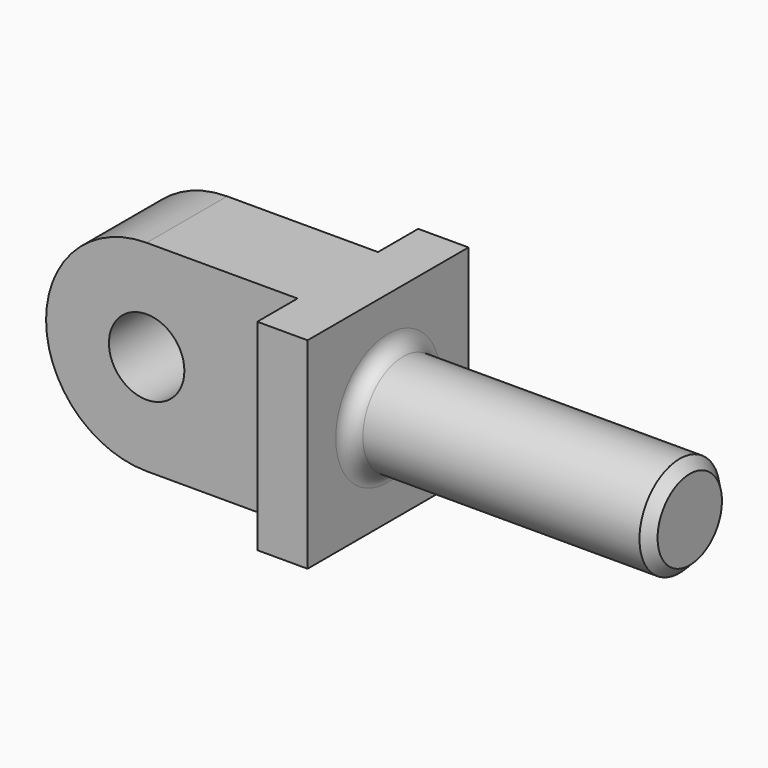
from build123d import *

# Parameters (mm, degrees)
F0_R     = 9.525
F1_DEPTH = 12.7
F0_W     = 12.7
F0_H     = 50.8
F2_DEPTH = 25.4
F6_SIZE2 = 2.54
F6_SIZE  = 2.54


with BuildPart() as f1:
    # F0 (on Front) → F1 (new body, symmetric)
    with BuildSketch(Plane.XZ):
        with BuildLine():
            Line((-50.8, 0), (-12.7, 0))
            Line((-12.7, 0), (-12.7, 50.8))
            Line((-12.7, 50.8), (-50.8, 50.8))
            ThreePointArc((-50.8, 50.8), (-76.2, 25.4), (-50.8, 0))
        make_face()
        with Locations((-50.8, 25.4)):
            Circle(F0_R, mode=Mode.SUBTRACT)
    extrude(amount=F1_DEPTH, both=True)

    # F0 (on Front) → F2 (join, symmetric)
    with BuildSketch(Plane.XZ):
        with Locations((-6.35, 25.4)):
            Rectangle(F0_W, F0_H)
    extrude(amount=F2_DEPTH, both=True)

    # F4 (on Front) → F5 (revolve)
    with BuildSketch(Plane.XZ):
        with BuildLine():
            Line((0, 41.91), (0, 25.4))
            Line((0, 25.4), (76.2, 25.4))
            Line((76.2, 25.4), (76.2, 38.1))
            Line((76.2, 38.1), (3.81, 38.1))
            ThreePointArc((3.81, 38.1), (1.1159231637, 39.2159231637), (0, 41.91))
        make_face()
    revolve(axis=Axis((44.0839976072, 0, 25.4), (1, 0, 0)))

    # F6
    f6_edges = [f1.edges().sort_by_distance(p)[0] for p in [
        (76.2, 0, 12.7),
    ]]
    chamfer(f6_edges, length=F6_SIZE, length2=F6_SIZE2)


solid = f1.part
